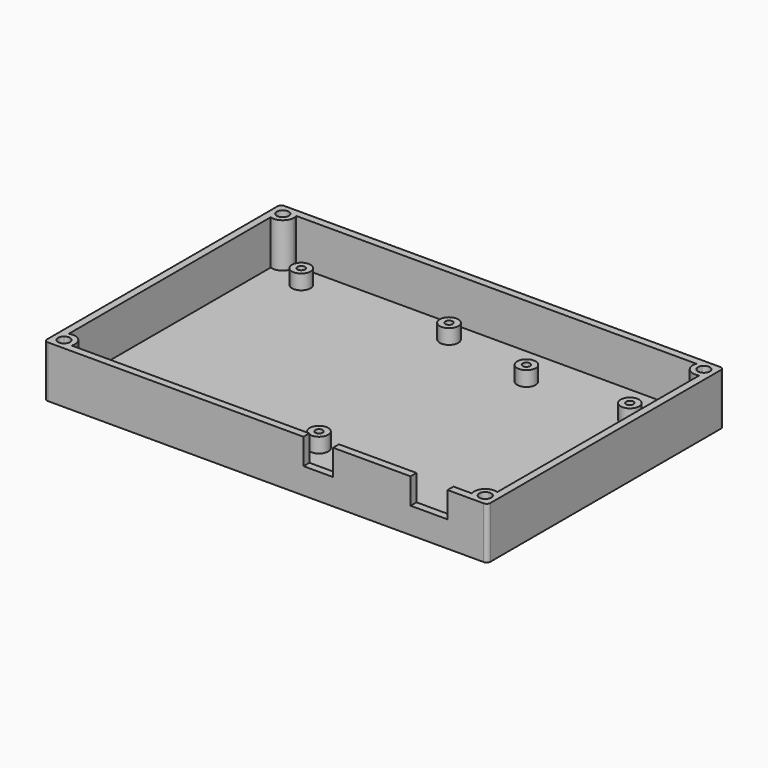
from build123d import *

# Parameters (mm, degrees)
F0_W     = 120
F0_H     = 80
F1_DEPTH = 2
F3_DEPTH = 12
F4_R     = 2.5
F4_R_2   = 1
F5_DEPTH = 4
F6_W     = 8
F6_H     = 7
F6_W_2   = 10
F7_DEPTH = 3
F8_R     = 1


with BuildPart() as f1:
    # F0 (on Top) → F1 (new body)
    with BuildSketch(Plane.XY):
        Rectangle(F0_W, F0_H)
    extrude(amount=F1_DEPTH)

    # F2 (on face) → F3 (join)
    with BuildSketch(Plane.XY.offset(2)):
        with BuildLine():
            Line((-58, -34.1715728753), (-58, 34.1715728753))
            ThreePointArc((-58, 34.1715728753), (-59.4494897428, 35.2679491924), (-60, 37))
            Line((-60, 37), (-60, -37))
            ThreePointArc((-60, -37), (-59.4494897428, -35.2679491924), (-58, -34.1715728753))
        make_face()
        with BuildLine():
            ThreePointArc((-57, -40), (-59.1213203436, -39.1213203436), (-60, -37))
            Line((-60, -37), (-60, -40))
            Line((-60, -40), (-57, -40))
        make_face()
        with BuildLine():
            ThreePointArc((-57, -40), (-55.2679491924, -39.4494897428), (-54.1715728753, -38))
            Line((-54.1715728753, -38), (-55.7510004003, -38))
            ThreePointArc((-55.7510004003, -38), (-58.1313708499, -38.1313708499), (-58, -35.7510004003))
            Line((-58, -35.7510004003), (-58, -34.1715728753))
            ThreePointArc((-58, -34.1715728753), (-59.4494897428, -35.2679491924), (-60, -37))
            ThreePointArc((-60, -37), (-59.1213203436, -39.1213203436), (-57, -40))
        make_face()
        with BuildLine():
            Line((-55.7510004003, -38), (-54.1715728753, -38))
            ThreePointArc((-54.1715728753, -38), (-54.043204321, -37.5073059362), (-54, -37))
            ThreePointArc((-54, -37), (-55.2679491924, -34.5505102572), (-58, -34.1715728753))
            Line((-58, -34.1715728753), (-58, -35.7510004003))
            ThreePointArc((-58, -35.7510004003), (-56.307179677, -35.5577794898), (-55.4, -37))
            ThreePointArc((-55.4, -37), (-55.4902981487, -37.5299059542), (-55.7510004003, -38))
        make_face()
        with BuildLine():
            ThreePointArc((57, -40), (55.2679491924, -39.4494897428), (54.1715728753, -38))
            Line((54.1715728753, -38), (-54.1715728753, -38))
            ThreePointArc((-54.1715728753, -38), (-55.2679491924, -39.4494897428), (-57, -40))
            Line((-57, -40), (57, -40))
        make_face()
        with BuildLine():
            Line((58, -35.7510004003), (58, -34.1715728753))
            ThreePointArc((58, -34.1715728753), (54.8786796564, -34.8786796564), (54.1715728753, -38))
            Line((54.1715728753, -38), (55.7510004003, -38))
            ThreePointArc((55.7510004003, -38), (55.8686291501, -35.8686291501), (58, -35.7510004003))
        make_face()
        with BuildLine():
            ThreePointArc((60, -37), (59.4494897428, -35.2679491924), (58, -34.1715728753))
            Line((58, -34.1715728753), (58, -35.7510004003))
            ThreePointArc((58, -35.7510004003), (58.4422205102, -36.307179677), (58.6, -37))
            ThreePointArc((58.6, -37), (57.5299059542, -38.5097018513), (55.7510004003, -38))
            Line((55.7510004003, -38), (54.1715728753, -38))
            ThreePointArc((54.1715728753, -38), (55.2679491924, -39.4494897428), (57, -40))
            ThreePointArc((57, -40), (59.1213203436, -39.1213203436), (60, -37))
        make_face()
        with BuildLine():
            Line((60, -40), (60, -37))
            ThreePointArc((60, -37), (59.1213203436, -39.1213203436), (57, -40))
            Line((57, -40), (60, -40))
        make_face()
        with BuildLine():
            ThreePointArc((60, 37), (59.4494897428, 35.2679491924), (58, 34.1715728753))
            Line((58, 34.1715728753), (58, -34.1715728753))
            ThreePointArc((58, -34.1715728753), (59.4494897428, -35.2679491924), (60, -37))
            Line((60, -37), (60, 37))
        make_face()
        with BuildLine():
            ThreePointArc((58, 35.7510004003), (55.8686291501, 35.8686291501), (55.7510004003, 38))
            Line((55.7510004003, 38), (54.1715728753, 38))
            ThreePointArc((54.1715728753, 38), (54.8786796564, 34.8786796564), (58, 34.1715728753))
            Line((58, 34.1715728753), (58, 35.7510004003))
        make_face()
        with BuildLine():
            Line((-54.1715728753, 38), (54.1715728753, 38))
            ThreePointArc((54.1715728753, 38), (55.2679491924, 39.4494897428), (57, 40))
            Line((57, 40), (-57, 40))
            ThreePointArc((-57, 40), (-55.2679491924, 39.4494897428), (-54.1715728753, 38))
        make_face()
        with BuildLine():
            Line((54.1715728753, 38), (55.7510004003, 38))
            ThreePointArc((55.7510004003, 38), (57.5299059542, 38.5097018513), (58.6, 37))
            ThreePointArc((58.6, 37), (58.4422205102, 36.307179677), (58, 35.7510004003))
            Line((58, 35.7510004003), (58, 34.1715728753))
            ThreePointArc((58, 34.1715728753), (59.4494897428, 35.2679491924), (60, 37))
            ThreePointArc((60, 37), (59.1213203436, 39.1213203436), (57, 40))
            ThreePointArc((57, 40), (55.2679491924, 39.4494897428), (54.1715728753, 38))
        make_face()
        with BuildLine():
            Line((60, 40), (57, 40))
            ThreePointArc((57, 40), (59.1213203436, 39.1213203436), (60, 37))
            Line((60, 37), (60, 40))
        make_face()
        with BuildLine():
            ThreePointArc((-60, 37), (-59.1213203436, 39.1213203436), (-57, 40))
            Line((-57, 40), (-60, 40))
            Line((-60, 40), (-60, 37))
        make_face()
        with BuildLine():
            Line((-55.7510004003, 38), (-54.1715728753, 38))
            ThreePointArc((-54.1715728753, 38), (-55.2679491924, 39.4494897428), (-57, 40))
            ThreePointArc((-57, 40), (-59.1213203436, 39.1213203436), (-60, 37))
            ThreePointArc((-60, 37), (-59.4494897428, 35.2679491924), (-58, 34.1715728753))
            Line((-58, 34.1715728753), (-58, 35.7510004003))
            ThreePointArc((-58, 35.7510004003), (-58.1313708499, 38.1313708499), (-55.7510004003, 38))
        make_face()
        with BuildLine():
            ThreePointArc((-54, 37), (-54.043204321, 37.5073059362), (-54.1715728753, 38))
            Line((-54.1715728753, 38), (-55.7510004003, 38))
            ThreePointArc((-55.7510004003, 38), (-55.4902981487, 37.5299059542), (-55.4, 37))
            ThreePointArc((-55.4, 37), (-56.307179677, 35.5577794898), (-58, 35.7510004003))
            Line((-58, 35.7510004003), (-58, 34.1715728753))
            ThreePointArc((-58, 34.1715728753), (-55.2679491924, 34.5505102572), (-54, 37))
        make_face()
    extrude(amount=F3_DEPTH)

    # F4 (on face) → F5 (join)
    with BuildSketch(Plane.XY.offset(2)):
        with Locations((50, -25)):
            Circle(F4_R)
        with Locations((50, -25)):
            Circle(F4_R_2, mode=Mode.SUBTRACT)
        with Locations((1.6, -24)):
            Circle(F4_R)
        with Locations((1.6, -24)):
            Circle(F4_R_2, mode=Mode.SUBTRACT)
        with Locations((44.8, 27.2)):
            Circle(F4_R)
        with Locations((44.8, 27.2)):
            Circle(F4_R_2, mode=Mode.SUBTRACT)
        with Locations((16.8, 27.2)):
            Circle(F4_R)
        with Locations((16.8, 27.2)):
            Circle(F4_R_2, mode=Mode.SUBTRACT)
        with Locations((-48, 32)):
            Circle(F4_R)
        with Locations((-48, 32)):
            Circle(F4_R_2, mode=Mode.SUBTRACT)
        with Locations((-8, 32)):
            Circle(F4_R)
        with Locations((-8, 32)):
            Circle(F4_R_2, mode=Mode.SUBTRACT)
        with Locations((-8, -32)):
            Circle(F4_R)
        with Locations((-8, -32)):
            Circle(F4_R_2, mode=Mode.SUBTRACT)
        with Locations((-48, -32)):
            Circle(F4_R)
        with Locations((-48, -32)):
            Circle(F4_R_2, mode=Mode.SUBTRACT)
    extrude(amount=F5_DEPTH)

    # F6 (on face) → F7 (cut)
    with BuildSketch(Plane.XZ.offset(40)):
        with Locations((14.2, 10.5)):
            Rectangle(F6_W, F6_H)
        with Locations((44.2, 10.5)):
            Rectangle(F6_W_2, F6_H)
    extrude(amount=-F7_DEPTH, mode=Mode.SUBTRACT)

    # F8
    f8_edges = [f1.edges().sort_by_distance(p)[0] for p in [
        (60, -40, 7),
        (60, 40, 7),
        (-60, -40, 7),
        (-60, 40, 7),
    ]]
    fillet(f8_edges, radius=F8_R)


solid = f1.part
